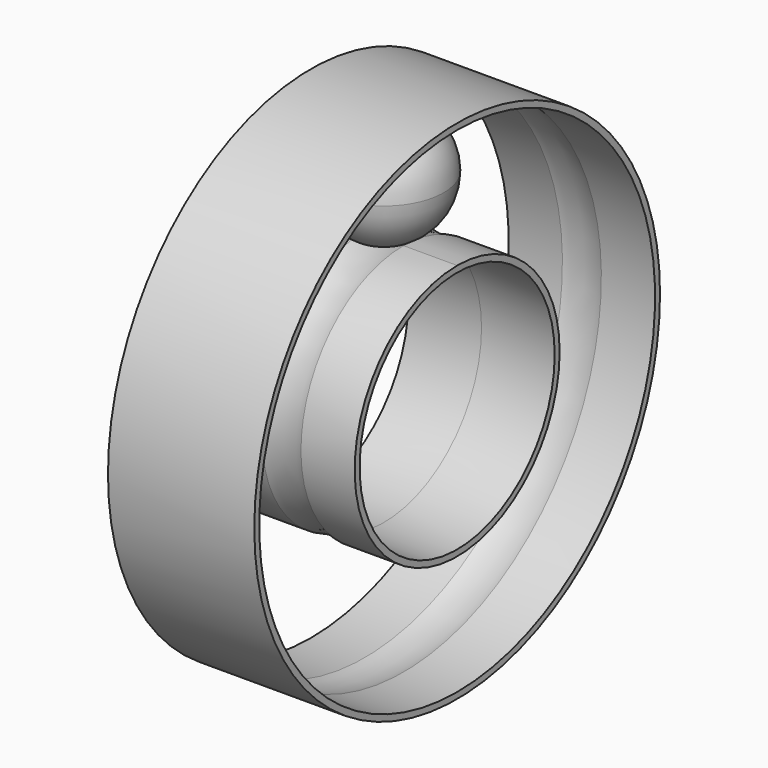
from build123d import *

# Parameters (mm, degrees)
F0_R     = 12.5
F1_DEPTH = 7.5
F0_R_2   = 26
F2_R     = 6.4324992


with BuildPart() as f1:
    # F0 (on Right) → F1 (new body, symmetric)
    with BuildSketch(Plane.YZ):
        with BuildLine():
            ThreePointArc((0, 13.135), (-9.2878475709, -9.2878475709), (13.135, 0))
            ThreePointArc((13.135, 0), (9.2878475709, 9.2878475709), (0, 13.135))
        make_face()
        Circle(F0_R, mode=Mode.SUBTRACT)
        with BuildLine():
            ThreePointArc((0, 13.135), (-9.2878475709, -9.2878475709), (13.135, 0))
            ThreePointArc((13.135, 0), (9.2878475709, 9.2878475709), (0, 13.135))
        make_face()
        Circle(F0_R, mode=Mode.SUBTRACT)
    extrude(amount=F1_DEPTH, both=True)


with BuildPart() as f1b:
    # F0 (on Right) → F1, piece 2 (new body, symmetric)
    with BuildSketch(Plane.YZ):
        Circle(F0_R_2)
        with BuildLine():
            ThreePointArc((25.365, 0), (-17.9357635048, -17.9357635048), (0, 25.365))
            ThreePointArc((0, 25.365), (17.9357635048, 17.9357635048), (25.365, 0))
        make_face(mode=Mode.SUBTRACT)
        Circle(F0_R_2)
        with BuildLine():
            ThreePointArc((25.365, 0), (-17.9357635048, -17.9357635048), (0, 25.365))
            ThreePointArc((0, 25.365), (17.9357635048, 17.9357635048), (25.365, 0))
        make_face(mode=Mode.SUBTRACT)
    extrude(amount=F1_DEPTH, both=True)


with BuildPart() as f3_tool:
    # F2 (on Front) → F3 (revolve)
    with BuildSketch(Plane.XZ):
        with Locations((0, 19.2499996)):
            Circle(F2_R)
    revolve(axis=Axis((0, 0, 0), (-1, 0, 0)))


with BuildPart() as f1_1:
    add(f1.part)

    # F3: cut by f3_tool
    add(f3_tool.part, mode=Mode.SUBTRACT)


with BuildPart() as f1b_1:
    add(f1b.part)

    # F3: cut by f3_tool
    add(f3_tool.part, mode=Mode.SUBTRACT)


with BuildPart() as f4:
    # F0 (on Right) → F4 (revolve)
    with BuildSketch(Plane.YZ):
        with BuildLine():
            Line((0, 19.25), (0, 13.135))
            ThreePointArc((0, 13.135), (4.323957967, 14.926042033), (6.115, 19.25))
            ThreePointArc((6.115, 19.25), (4.323957967, 23.573957967), (0, 25.365))
            Line((0, 25.365), (0, 19.25))
        make_face()
    revolve(axis=Axis((0, 0, 22.3075), (0, 0, 1)))


solid = Compound([f1_1.part, f1b_1.part, f4.part])
